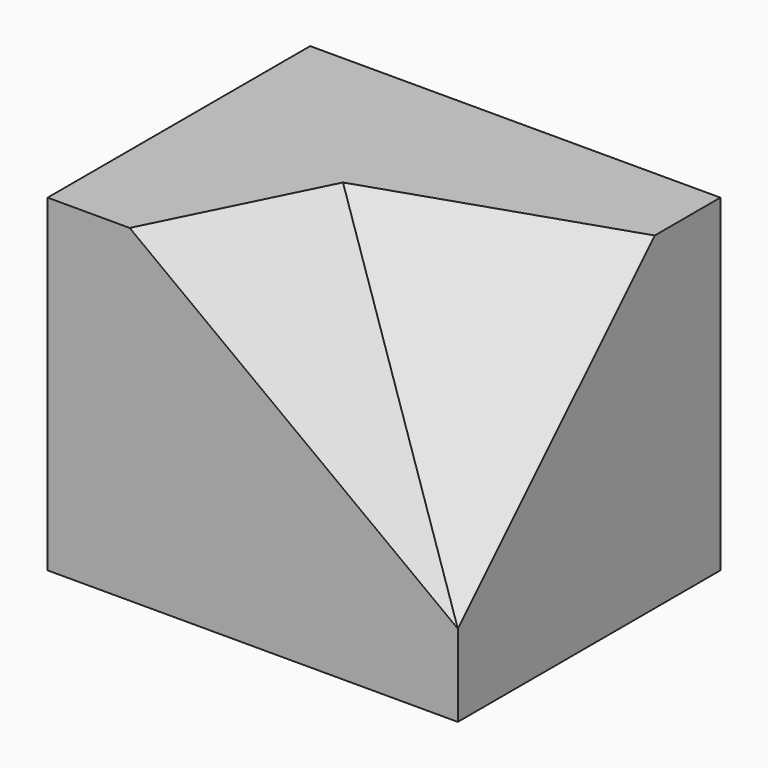
from build123d import *

# Parameters (mm, degrees)
F0_W     = 50
F0_H     = 40
F1_DEPTH = 40
F6_DEPTH = 22.9888308453
F9_DEPTH = 20.6484160484


with BuildPart() as f1:
    # F0 (on Top) → F1 (new body)
    with BuildSketch(Plane.XY):
        with Locations((25, 20)):
            Rectangle(F0_W, F0_H)
    extrude(amount=F1_DEPTH)

    # F5 (on 3pt) → F6 (cut, through all)
    with BuildSketch(Plane(origin=(20.9174311927, -10.4587155963, 27.8899082569), x_dir=(0.8183671368, 0.201789157, -0.5381044187), z_dir=(0.5746957711, -0.2873478856, 0.7662610282))):
        Polygon((-1.1210508724, 32.7715212149), (-13.3405053812, 14.0449376635), (35.5373126541, 3.5112344159), align=None)
    extrude(amount=F6_DEPTH, mode=Mode.SUBTRACT)

    # F8 (on 3pt) → F9 (cut, through all)
    with BuildSketch(Plane(origin=(4.2105263158, -12.6315789474, 12.6315789474), x_dir=(0.9733285268, 0.1622214211, -0.1622214211), z_dir=(0.2294157339, -0.6882472016, 0.6882472016))):
        Polygon((47.0442121279, 49.4974746831), (16.2221421131, 42.4264068712), (47.0442121279, 7.0710678119), align=None)
    extrude(amount=F9_DEPTH, mode=Mode.SUBTRACT)


solid = f1.part
